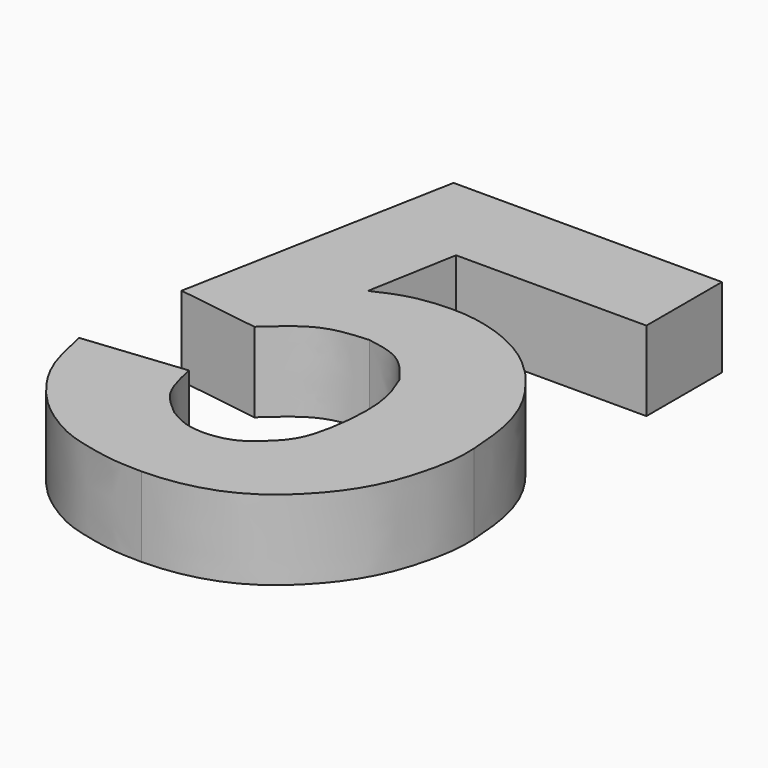
from build123d import *

# Parameters (mm, degrees)
F1_DEPTH = 7.5


with BuildPart() as f1:
    # F0 (on Top) → F1 (new body)
    with BuildSketch(Plane.XY):
        with BuildLine():
            Line((14.4781991839, 20.3281771392), (-10.7714058831, 20.3281771392))
            Line((-10.7714058831, 20.3281771392), (-15.6588610262, -5.5518653244))
            Line((-15.6588610262, -5.5518653244), (-7.8951800242, -6.694723852))
            add(Edge.make_bspline(
                [(-7.8951800242, -6.694723852), (-6.6503351522, -5.5458798939), (-4.2596610675, -3.3395716704), (-1.3801327687, -3.1450532749), (0, -3.0518223066)],
                knots=[0, 0, 0, 0, 0.5207087323, 1, 1, 1, 1], degree=3))
            add(Edge.make_bspline(
                [(0, -3.0518223066), (0.8473306195, -3.1945235836), (2.4593160997, -3.4660024859), (4.1995950905, -4.631983502), (5.1852220546, -5.9483334582), (5.7048606686, -6.6423346289)],
                knots=[0, 0, 0, 0, 0.3437897581, 0.6540352557, 1, 1, 1, 1], degree=3))
            add(Edge.make_bspline(
                [(5.7048606686, -6.6423346289), (6.1970111276, -7.835549608), (7.315004759, -10.5461165151), (6.4156943794, -17.6246726315), (5.3494527147, -18.9945495293), (4.9630193971, -19.4910280406)],
                knots=[0, 0, 0, 0, 0.3339441636, 0.7586042873, 1, 1, 1, 1], degree=3))
            add(Edge.make_bspline(
                [(4.9630193971, -19.4910280406), (4.1458144286, -20.3473698307), (2.4721106995, -22.1012290248), (-1.7378151182, -22.368844051), (-3.3168099123, -21.4076850905), (-4.0280986577, -20.9747124463)],
                knots=[0, 0, 0, 0, 0.3439696466, 0.7044784386, 1, 1, 1, 1], degree=3))
            add(Edge.make_bspline(
                [(-4.0280986577, -20.9747124463), (-4.8272364221, -20.3030466228), (-6.507915041, -18.8904561548), (-7.034566838, -16.4154299447), (-7.310803514, -15.117242001)],
                knots=[0, 0, 0, 0, 0.4754851733, 1, 1, 1, 1], degree=3))
            Line((-7.310803514, -15.117242001), (-16.8474204838, -16.1141324788))
            add(Edge.make_bspline(
                [(-16.8474204838, -16.1141324788), (-16.5164443433, -17.7464255007), (-15.8839625918, -20.8656701319), (-13.5186259662, -24.3343952479), (-11.3409628891, -26.5248999549), (-8.1732343327, -28.5111930211), (-5.666432398, -29.1762389401), (-2.8341227464, -29.7945616518), (-0.944985635, -29.8296059042), (0, -29.8471357673)],
                knots=[0, 0, 0, 0, 0.1714922974, 0.327714706, 0.4649520738, 0.6126981258, 0.7382856393, 0.869085039, 1, 1, 1, 1], degree=3))
            add(Edge.make_bspline(
                [(0, -29.8471357673), (0.9364714371, -29.8129367466), (3.0026970371, -29.737480209), (7.2219107038, -28.6055920764), (10.7531400913, -26.1528423296), (13.5391721438, -23.0573102241), (15.6597502075, -19.4078449032), (16.8970399017, -14.2017954442), (16.8298207507, -12.4501245798), (16.8028082699, -11.7462035269)],
                knots=[0, 0, 0, 0, 0.1245960864, 0.2749081425, 0.425289936, 0.5712337439, 0.7220478366, 0.8883030006, 1, 1, 1, 1], degree=3))
            add(Edge.make_bspline(
                [(16.8028082699, -11.7462035269), (16.6917356704, -10.2115727769), (16.4727979832, -7.1866277539), (14.8289845902, -3.0919276156), (13.0874714648, -1.0176586773), (12.2330663726, 0)],
                knots=[0, 0, 0, 0, 0.3440629754, 0.6781902325, 1, 1, 1, 1], degree=3))
            add(Edge.make_bspline(
                [(12.2330663726, 0), (11.5643891106, 0.6453889337), (10.1558821908, 2.00484114), (7.0733391904, 3.6856426947), (3.389216415, 4.652277865), (0.0240656394, 4.566040085), (-2.5309367449, 4.0843928971), (-4.1385862423, 3.3494429932), (-4.9475086853, 2.9796375893)],
                knots=[0, 0, 0, 0, 0.1596965491, 0.3363860375, 0.5217484082, 0.6946401487, 0.8463518091, 1, 1, 1, 1], degree=3))
            Line((-4.9475086853, 2.9796375893), (-3.4359176643, 11.4468373358))
            Line((-3.4359176643, 11.4468373358), (14.4781991839, 11.4468373358))
            Line((14.4781991839, 11.4468373358), (14.4781991839, 20.3281771392))
        make_face()
    extrude(amount=F1_DEPTH)


solid = f1.part
